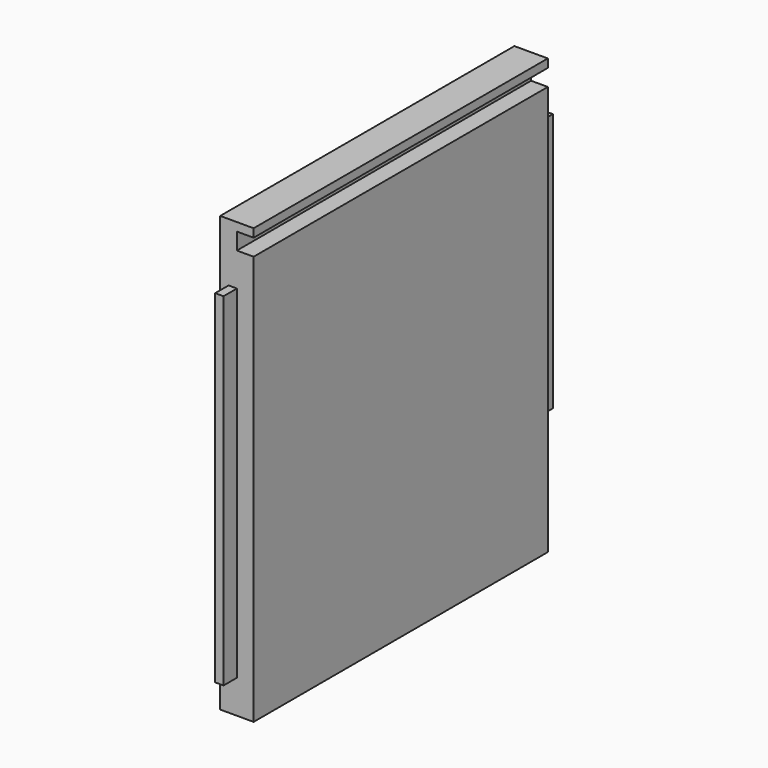
from build123d import *

# Parameters (mm, degrees)
F0_W     = 279.4
F0_H     = 304.8
F1_DEPTH = 25.4
F2_W     = 279.4
F2_H     = 25.4
F3_DEPTH = 25.4
F4_W     = 279.4
F4_H     = 12.7
F5_DEPTH = 12.7
F6_W     = 6.35
F6_H     = 260.35
F7_DEPTH = 12.7
F8_W     = 12.7
F8_H     = 196.85
F9_DEPTH = 12.7


with BuildPart() as f1:
    # F0 (on Right) → F1 (new body)
    with BuildSketch(Plane.YZ):
        with Locations((-139.7, 152.4)):
            Rectangle(F0_W, F0_H)
    extrude(amount=F1_DEPTH)

    # F2 (on Right) → F3 (join)
    with BuildSketch(Plane.YZ):
        with Locations((-139.7, -12.7)):
            Rectangle(F2_W, F2_H)
    extrude(amount=F3_DEPTH)

    # F4 (on face) → F5 (cut)
    with BuildSketch(Plane.YZ.offset(25.4)):
        with Locations((-139.7, 292.1)):
            Rectangle(F4_W, F4_H)
    extrude(amount=-F5_DEPTH, mode=Mode.SUBTRACT)

    # F6 (on face) → F7 (join)
    with BuildSketch(Plane.XZ.offset(279.4)):
        with Locations((9.525, 130.175)):
            Rectangle(F6_W, F6_H)
    extrude(amount=F7_DEPTH)

    # F8 (on face) → F9 (join)
    with BuildSketch(Plane(origin=(0, 0, 0), x_dir=(-1, 0, 0), z_dir=(0, 1, 0))):
        with Locations((-12.7, 161.925)):
            Rectangle(F8_W, F8_H)
    extrude(amount=F9_DEPTH)


solid = f1.part
